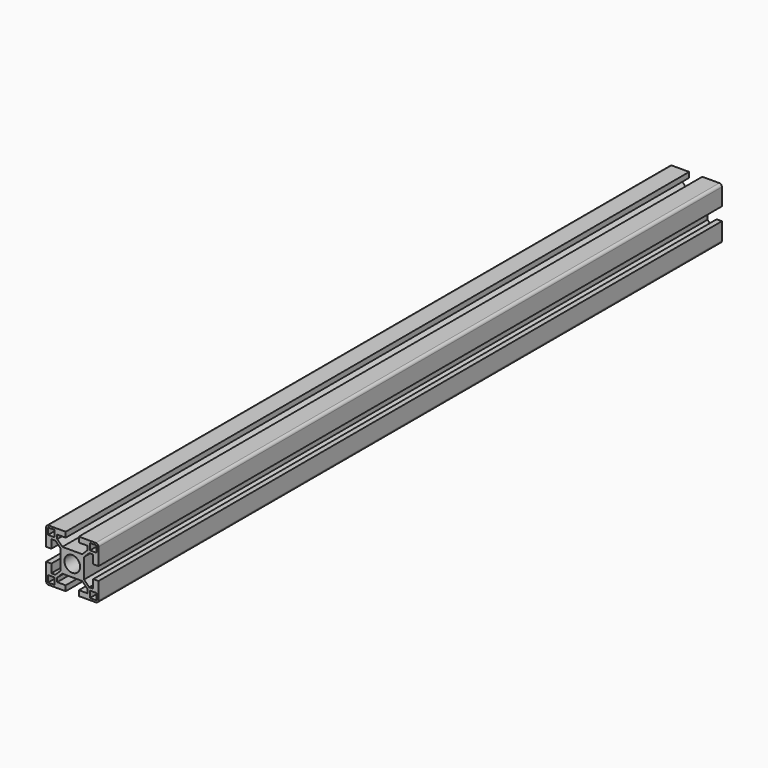
from build123d import *

# Parameters (mm, degrees)
F0_W     = 5
F0_H     = 5
F0_R     = 6
F1_DEPTH = 595


with BuildPart() as f1:
    # F0 (on Front) → F1 (new body)
    with BuildSketch(Plane.XZ):
        with BuildLine():
            Line((5, -20), (18, -20))
            ThreePointArc((18, -20), (19.414214, -19.414214), (20, -18))
            Line((20, -18), (20, -5))
            Line((20, -5), (16, -5))
            Line((16, -5), (16, -11.5))
            Line((16, -11.5), (12.914214, -11.5))
            Line((12.914214, -11.5), (9, -7.585786))
            Line((9, -7.585786), (9, 0))
            Line((9, 0), (9, 7.585786))
            Line((9, 7.585786), (12.914214, 11.5))
            Line((12.914214, 11.5), (16, 11.5))
            Line((16, 11.5), (16, 5))
            Line((16, 5), (20, 5))
            Line((20, 5), (20, 18))
            ThreePointArc((20, 18), (19.414214, 19.414214), (18, 20))
            Line((18, 20), (5, 20))
            Line((5, 20), (5, 16))
            Line((5, 16), (11.5, 16))
            Line((11.5, 16), (11.5, 12.914214))
            Line((11.5, 12.914214), (7.585786, 9))
            Line((7.585786, 9), (0, 9))
            Line((0, 9), (-7.585786, 9))
            Line((-7.585786, 9), (-11.5, 12.914214))
            Line((-11.5, 12.914214), (-11.5, 16))
            Line((-11.5, 16), (-5, 16))
            Line((-5, 16), (-5, 20))
            Line((-5, 20), (-18, 20))
            ThreePointArc((-18, 20), (-19.414214, 19.414214), (-20, 18))
            Line((-20, 18), (-20, 5))
            Line((-20, 5), (-16, 5))
            Line((-16, 5), (-16, 11.5))
            Line((-16, 11.5), (-12.914214, 11.5))
            Line((-12.914214, 11.5), (-9, 7.585786))
            Line((-9, 7.585786), (-9, 0))
            Line((-9, 0), (-9, -7.585786))
            Line((-9, -7.585786), (-12.914214, -11.5))
            Line((-12.914214, -11.5), (-16, -11.5))
            Line((-16, -11.5), (-16, -5))
            Line((-16, -5), (-20, -5))
            Line((-20, -5), (-20, -18))
            ThreePointArc((-20, -18), (-19.414214, -19.414214), (-18, -20))
            Line((-18, -20), (-5, -20))
            Line((-5, -20), (-5, -16))
            Line((-5, -16), (-11.5, -16))
            Line((-11.5, -16), (-11.5, -12.914214))
            Line((-11.5, -12.914214), (-7.585786, -9))
            Line((-7.585786, -9), (0, -9))
            Line((0, -9), (7.585786, -9))
            Line((7.585786, -9), (11.5, -12.914214))
            Line((11.5, -12.914214), (11.5, -16))
            Line((11.5, -16), (5, -16))
            Line((5, -16), (5, -20))
        make_face()
        with Locations((-16, -16)):
            Rectangle(F0_W, F0_H, mode=Mode.SUBTRACT)
        with Locations((16, -16)):
            Rectangle(F0_W, F0_H, mode=Mode.SUBTRACT)
        with Locations((-16, 16)):
            Rectangle(F0_W, F0_H, mode=Mode.SUBTRACT)
        Circle(F0_R, mode=Mode.SUBTRACT)
        with Locations((16, 16)):
            Rectangle(F0_W, F0_H, mode=Mode.SUBTRACT)
    extrude(amount=F1_DEPTH)


solid = f1.part
